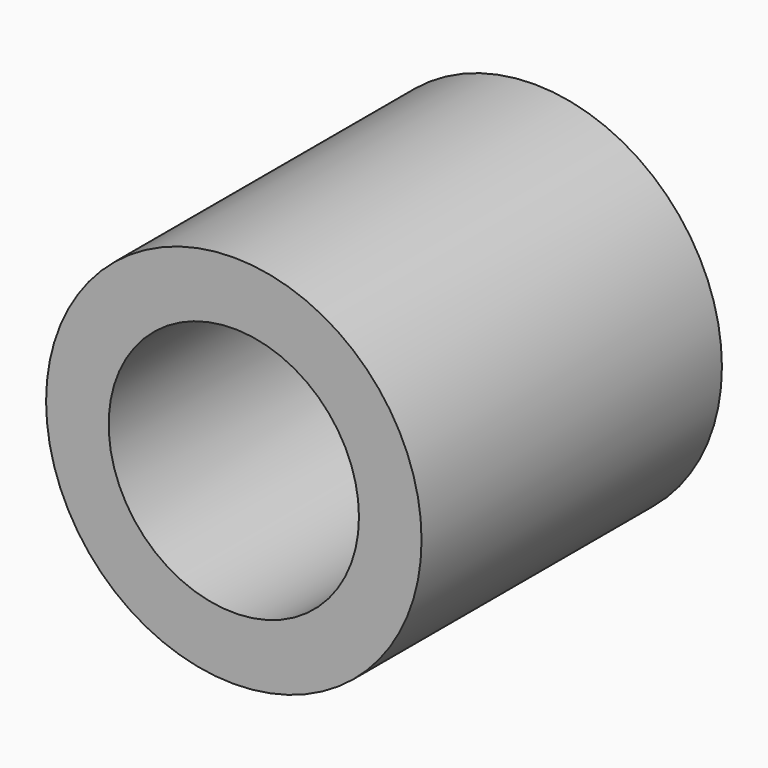
from build123d import *

# Parameters (mm, degrees)
F0_R     = 6
F0_R_2   = 4
F1_DEPTH = 12
F2_R     = 5
F3_DEPTH = 2


with BuildPart() as f1:
    # F0 (on Front) → F1 (new body)
    with BuildSketch(Plane.XZ):
        Circle(F0_R)
        Circle(F0_R_2, mode=Mode.SUBTRACT)
    extrude(amount=F1_DEPTH)

    # F2 (on face) → F3 (cut)
    with BuildSketch(Plane(origin=(0, 0, 0), x_dir=(-1, 0, 0), z_dir=(0, 1, 0))):
        Circle(F2_R)
    extrude(amount=-F3_DEPTH, mode=Mode.SUBTRACT)


solid = f1.part
